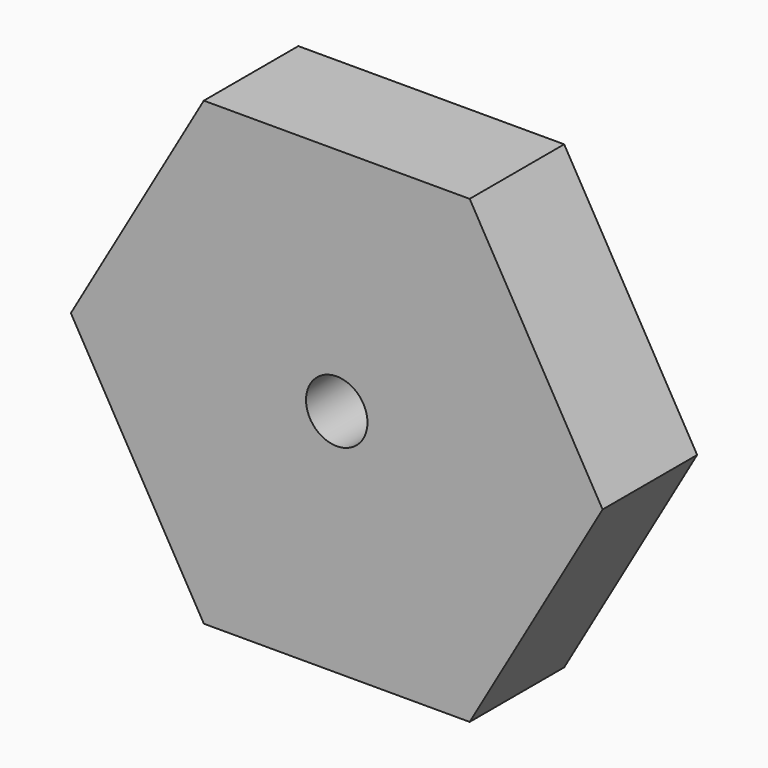
from build123d import *

# Parameters (mm, degrees)
F1_DEPTH = 12.7
F2_R     = 3.302
F3_DEPTH = 25.4


with BuildPart() as f1:
    # F0 (on Front) → F1 (new body)
    with BuildSketch(Plane.XZ):
        Polygon((14.2875, -24.746676), (28.575, 0), (14.2875, 24.746676), (-14.2875, 24.746676), (-28.575, 0), (-14.2875, -24.746676), align=None)
    extrude(amount=F1_DEPTH)

    # F2 (on face) → F3 (cut)
    with BuildSketch(Plane.XZ.offset(12.7)):
        Circle(F2_R)
    extrude(amount=-F3_DEPTH, mode=Mode.SUBTRACT)


solid = f1.part
